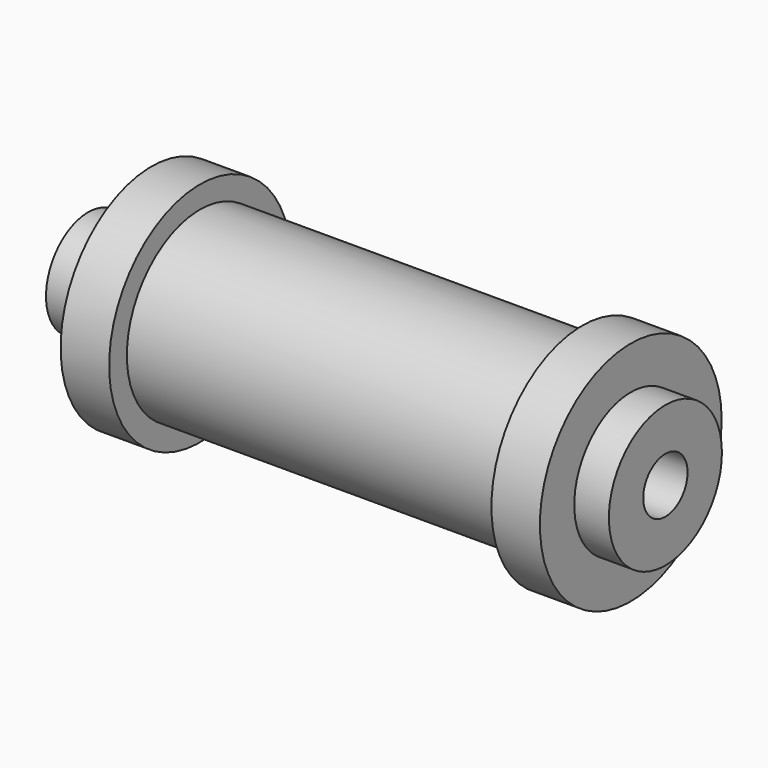
from build123d import *

# Parameters (mm, degrees)
F2_R     = 4
F3_DEPTH = 60


with BuildPart() as f1:
    # F0 (on Top) → F1 (revolve)
    with BuildSketch(Plane.XY):
        Polygon((0, 7.601157), (0, 0), (83.355051, 0), (83.355051, 10.201156), (78.355052, 10.201156), (78.355052, 16.401156), (71.355052, 16.401156), (71.355052, 13.201156), (16.155056, 13.201156), (16.155056, 16.401156), (9.155056, 16.401156), (9.155056, 7.601157), align=None)
    revolve(axis=Axis((41.677526, 0, 0), (-1, 0, 0)))

    # F2 (on face) → F3 (cut)
    with BuildSketch(Plane.YZ.offset(83.355051)):
        Circle(F2_R)
    extrude(amount=-F3_DEPTH, mode=Mode.SUBTRACT)


solid = f1.part
